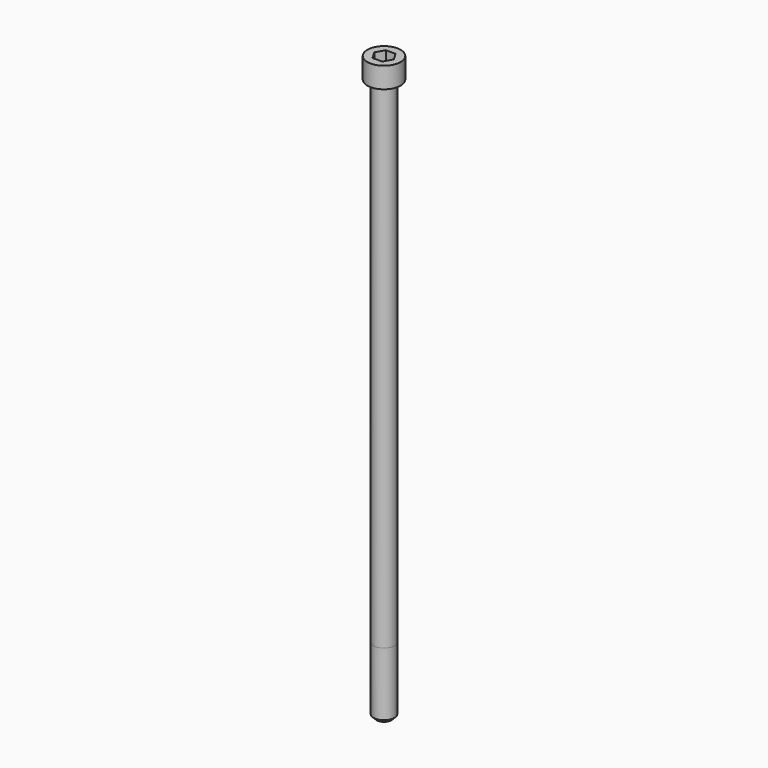
from build123d import *

# Parameters (mm, degrees)
POCKET_DEPTH = 8.07


with BuildPart() as part:
    # Sketch → Revolve (revolve)
    with BuildSketch(Plane.YZ):
        with BuildLine():
            Line((4.999, 0), (8, 0))
            Line((8, 0), (8, 9.97229))
            ThreePointArc((8, 9.97229), (7.991884, 9.991884), (7.97229, 10))
            Line((7.97229, 10), (0, 10))
            Line((0, -270), (0, 10))
            Line((3.5, -270), (0, -270))
            Line((5, -268.5), (3.5, -270))
            Line((5, -238), (5, -268.5))
            Line((4.999, 0), (5, -238))
        make_face()
    revolve(axis=Axis((0, 0, 0), (0, 0, 1)))

    # Sketch001 → Pocket (cut)
    with BuildSketch(Plane.XY.offset(10)):
        Polygon((4.659217, 0), (2.329608, 4.035), (-2.329608, 4.035), (-4.659217, 0), (-2.329608, -4.035), (2.329608, -4.035), align=None)
    extrude(amount=-POCKET_DEPTH, mode=Mode.SUBTRACT)


solid = part.part
